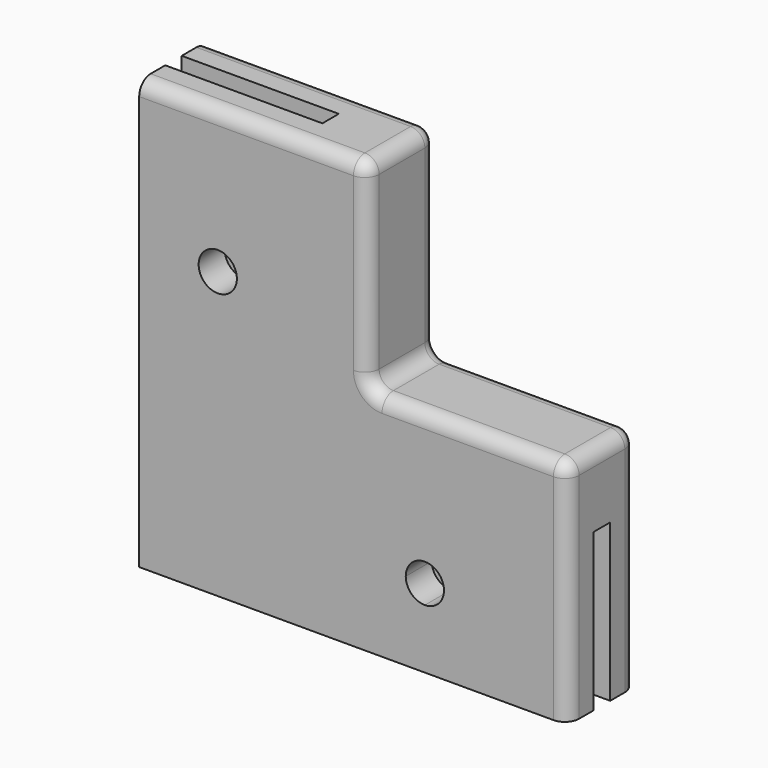
from build123d import *

# Parameters (mm, degrees)
F0_W      = 38.1
F0_H      = 38.1
F1_DEPTH  = 7.62
F2_W      = 1.8288
F2_H      = 13.97
F3_DEPTH  = 38.101
F4_W      = 13.97
F4_H      = 1.8288
F5_DEPTH  = 38.101
F6_W      = 17.78
F6_H      = 17.78
F7_DEPTH  = 7.621
F8_R      = 2.54
F9_R      = 1.7
F10_DEPTH = 7.621
F11_R     = 1.27


with BuildPart() as f1:
    # F0 (on Front) → F1 (new body)
    with BuildSketch(Plane.XZ):
        with Locations((19.05, 19.05)):
            Rectangle(F0_W, F0_H)
    extrude(amount=F1_DEPTH)

    # F2 (on face) → F3 (cut, through all)
    with BuildSketch(Plane.YZ.offset(38.1)):
        with Locations((-3.81, 6.985)):
            Rectangle(F2_W, F2_H)
    extrude(amount=-F3_DEPTH, mode=Mode.SUBTRACT)

    # F4 (on face) → F5 (cut, through all)
    with BuildSketch(Plane.XY.offset(38.1)):
        with Locations((6.985, -3.81)):
            Rectangle(F4_W, F4_H)
    extrude(amount=-F5_DEPTH, mode=Mode.SUBTRACT)

    # F6 (on face) → F7 (cut, through all)
    with BuildSketch(Plane(origin=(0, 0, 0), x_dir=(-1, 0, 0), z_dir=(0, 1, 0))):
        with Locations((-29.21, 29.21)):
            Rectangle(F6_W, F6_H)
    extrude(amount=-F7_DEPTH, mode=Mode.SUBTRACT)

    # F8
    f8_edges = [f1.edges().sort_by_distance(p)[0] for p in [
        (13.97, -3.81, 13.97),
    ]]
    fillet(f8_edges, radius=F8_R)

    # F9 (on face) → F10 (cut, through all)
    with BuildSketch(Plane.XZ.offset(7.62)):
        with Locations((6.985, 25.4)):
            Circle(F9_R)
        with BuildLine():
            ThreePointArc((23.7, 6.985), (24.197918472, 5.782918472), (25.4, 5.285))
            Line((25.4, 5.285), (25.4, 6.985))
            Line((25.4, 6.985), (23.7, 6.985))
        make_face()
        with BuildLine():
            Line((25.4, 6.985), (25.4, 5.285))
            ThreePointArc((25.4, 5.285), (26.602081528, 5.782918472), (27.1, 6.985))
            ThreePointArc((27.1, 6.985), (25.4, 8.685), (23.7, 6.985))
            Line((23.7, 6.985), (25.4, 6.985))
        make_face()
    extrude(amount=-F10_DEPTH, mode=Mode.SUBTRACT)

    # F11
    f11_edges = [f1.edges().sort_by_distance(p)[0] for p in [
        (10.16, 0, 38.1),
        (10.16, -7.62, 38.1),
        (20.32, -3.81, 38.1),
        (20.32, 0, 29.21),
        (20.32, -7.62, 29.21),
        (20.32, -3.81, 20.32),
        (38.1, -3.81, 20.32),
        (29.21, 0, 20.32),
        (29.21, -7.62, 20.32),
        (38.1, 0, 10.16),
        (38.1, -7.62, 10.16),
    ]]
    fillet(f11_edges, radius=F11_R)


solid = f1.part
